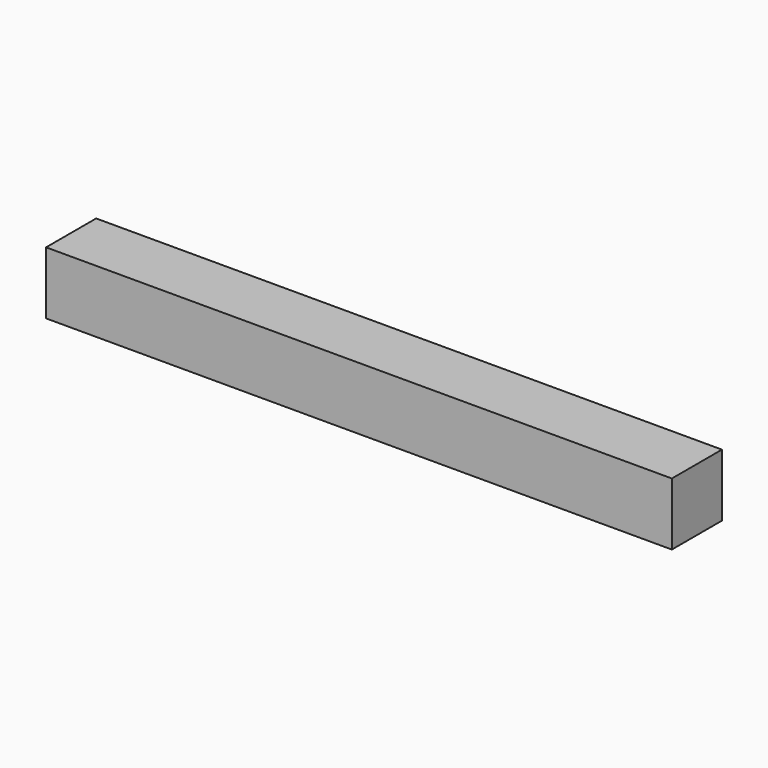
from build123d import *

# Parameters (mm, degrees)
F0_W     = 50
F0_H     = 5
F1_DEPTH = 5
F2_W     = 5
F2_H     = 50
F3_DEPTH = 5


with BuildPart() as f1:
    # F0 (on Front) → F1 (new body)
    with BuildSketch(Plane.XZ):
        with Locations((17.437404, 2.5)):
            Rectangle(F0_W, F0_H)
    extrude(amount=F1_DEPTH)


with BuildPart() as f3:
    # F2 (on Front) → F3 (new body)
    with BuildSketch(Plane.XZ):
        with Locations((-58.303325, 25)):
            Rectangle(F2_W, F2_H)
    extrude(amount=F3_DEPTH)


solid = f1.part
